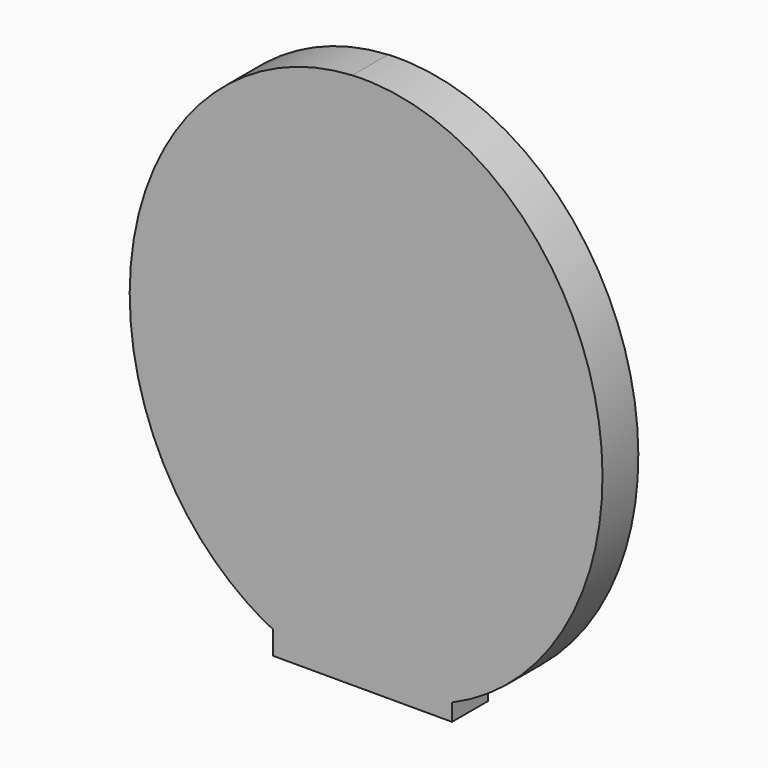
from build123d import *

# Parameters (mm, degrees)
F1_DEPTH = 12.7
F2_W     = 50.8
F2_H     = 12.7
F3_DEPTH = 76.2


with BuildPart() as f1:
    # F0 (on Front) → F1 (new body)
    with BuildSketch(Plane.XZ):
        with BuildLine():
            add(Edge.make_bspline(
                [(-3.925731, 76.098808), (-119.899562, 70.116034), (-56.024051, -41.040792), (7.851461, -152.197617), (59.949781, -35.058017), (112.048101, 82.081583), (-3.925731, 76.098808)],
                knots=[0, 0, 0, 2.094395, 2.094395, 4.18879, 4.18879, 6.283185, 6.283185, 6.283185], degree=2, weights=[1, 0.5, 1, 0.5, 1, 0.5, 1]))
        make_face()
    extrude(amount=F1_DEPTH)

    # F2 (on Top) → F3 (join)
    with BuildSketch(Plane.XY):
        with Locations((-1.032503, -6.35)):
            Rectangle(F2_W, F2_H)
    extrude(amount=-F3_DEPTH)


solid = f1.part
